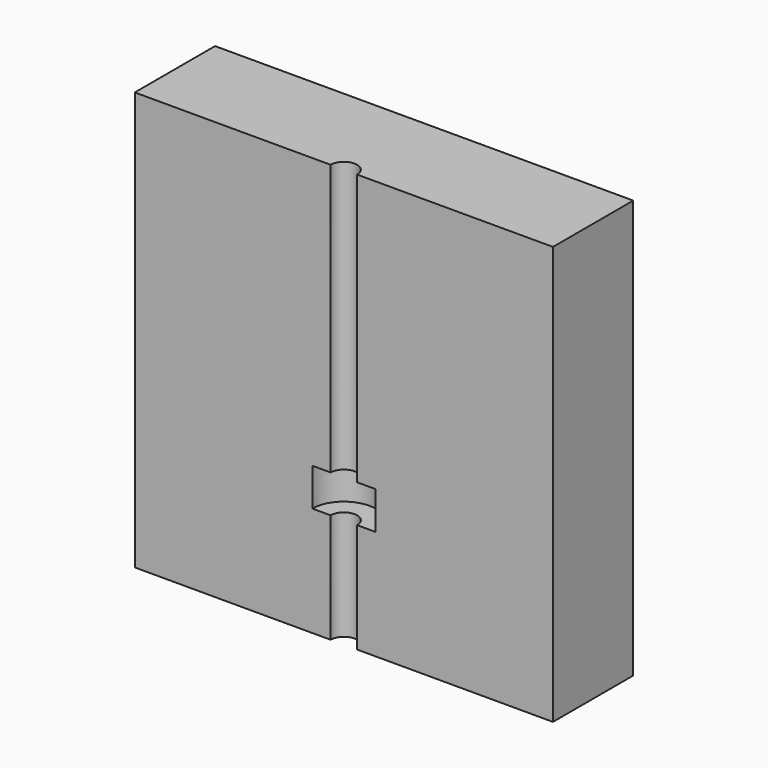
from build123d import *

# Parameters (mm, degrees)
F1_DEPTH = 50
F2_START = 13.1
F2_DEPTH = 4.51


with BuildPart() as f1:
    # F0 (on Top) → F1 (new body)
    with BuildSketch(Plane.XY):
        with BuildLine():
            ThreePointArc((-1.5875, 0), (0, 1.5875), (1.5875, 0))
            Line((1.5875, 0), (3.77, 0))
            ThreePointArc((3.77, 0), (0, 3.77), (-3.77, 0))
            Line((-3.77, 0), (-1.5875, 0))
        make_face()
        with BuildLine():
            ThreePointArc((-3.77, 0), (0, 3.77), (3.77, 0))
            Line((3.77, 0), (25, 0))
            Line((25, 0), (25, 12))
            Line((25, 12), (-25, 12))
            Line((-25, 12), (-25, 0))
            Line((-25, 0), (-3.77, 0))
        make_face()
    extrude(amount=F1_DEPTH)

    # F0 (on Top) → F2 (cut)
    with BuildSketch(Plane.XY.offset(F2_START)):
        with BuildLine():
            Line((3.77, 0), (1.5875, 0))
            ThreePointArc((1.5875, 0), (0, -1.5875), (-1.5875, 0))
            Line((-1.5875, 0), (-3.77, 0))
            ThreePointArc((-3.77, 0), (0, -3.77), (3.77, 0))
        make_face()
        with BuildLine():
            ThreePointArc((-1.5875, 0), (0, 1.5875), (1.5875, 0))
            Line((1.5875, 0), (3.77, 0))
            ThreePointArc((3.77, 0), (0, 3.77), (-3.77, 0))
            Line((-3.77, 0), (-1.5875, 0))
        make_face()
    extrude(amount=F2_DEPTH, mode=Mode.SUBTRACT)


solid = f1.part
